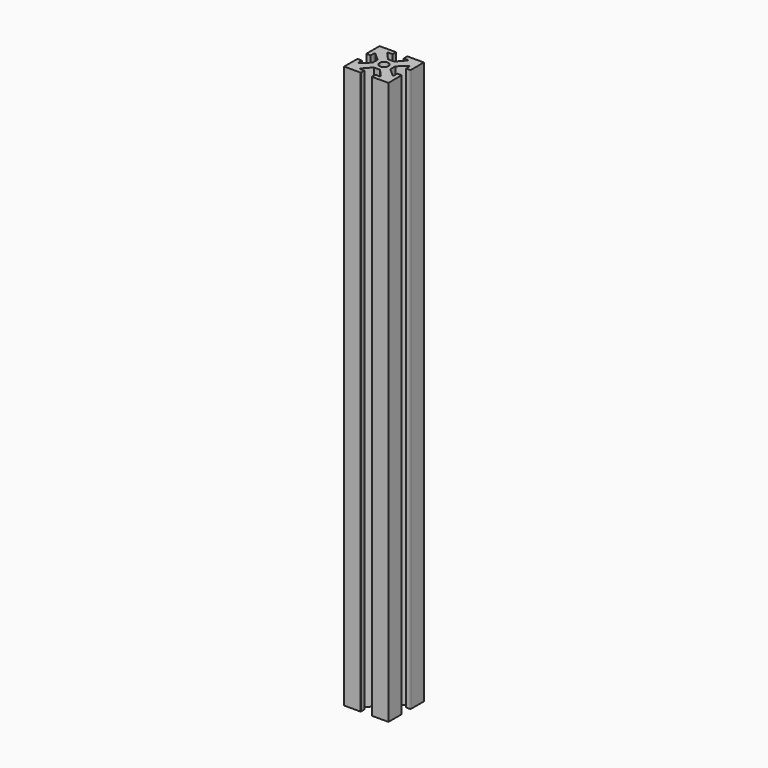
from build123d import *

# Parameters (mm, degrees)
F0_R     = 2
F1_DEPTH = 254


with BuildPart() as f1:
    # F0 (on Top) → F1 (new body)
    with BuildSketch(Plane.XY):
        with BuildLine():
            Line((10, 2.7), (10, 10))
            Line((10, 10), (2.7, 10))
            ThreePointArc((2.7, 10), (2.558579, 9.941421), (2.5, 9.8))
            Line((2.5, 9.8), (2.5, 8))
            Line((2.5, 8), (4.32817, 8))
            ThreePointArc((4.32817, 8), (4.6021, 7.822321), (4.551552, 7.49975))
            Line((4.551552, 7.49975), (1.414214, 4))
            Line((1.414214, 4), (-1.414214, 4))
            Line((-1.414214, 4), (-4.551552, 7.49975))
            ThreePointArc((-4.551552, 7.49975), (-4.6021, 7.822321), (-4.32817, 8))
            Line((-4.32817, 8), (-2.5, 8))
            Line((-2.5, 8), (-2.5, 9.8))
            ThreePointArc((-2.5, 9.8), (-2.558579, 9.941421), (-2.7, 10))
            Line((-2.7, 10), (-10, 10))
            Line((-10, 10), (-10, 2.7))
            ThreePointArc((-10, 2.7), (-9.941421, 2.558579), (-9.8, 2.5))
            Line((-9.8, 2.5), (-8, 2.5))
            Line((-8, 2.5), (-8, 4.32817))
            ThreePointArc((-8, 4.32817), (-7.822321, 4.6021), (-7.49975, 4.551552))
            Line((-7.49975, 4.551552), (-4, 1.414214))
            Line((-4, 1.414214), (-4, -1.414214))
            Line((-4, -1.414214), (-7.49975, -4.551552))
            ThreePointArc((-7.49975, -4.551552), (-7.822321, -4.6021), (-8, -4.32817))
            Line((-8, -4.32817), (-8, -2.5))
            Line((-8, -2.5), (-9.7, -2.5))
            ThreePointArc((-9.7, -2.5), (-9.912132, -2.587868), (-10, -2.8))
            Line((-10, -2.8), (-10, -10))
            Line((-10, -10), (-2.7, -10))
            ThreePointArc((-2.7, -10), (-2.558579, -9.941421), (-2.5, -9.8))
            Line((-2.5, -9.8), (-2.5, -8))
            Line((-2.5, -8), (-4.32817, -8))
            ThreePointArc((-4.32817, -8), (-4.6021, -7.822321), (-4.551552, -7.49975))
            Line((-4.551552, -7.49975), (-1.414214, -4))
            Line((-1.414214, -4), (1.414214, -4))
            Line((1.414214, -4), (4.551552, -7.49975))
            ThreePointArc((4.551552, -7.49975), (4.6021, -7.822321), (4.32817, -8))
            Line((4.32817, -8), (2.5, -8))
            Line((2.5, -8), (2.5, -9.8))
            ThreePointArc((2.5, -9.8), (2.558579, -9.941421), (2.7, -10))
            Line((2.7, -10), (10, -10))
            Line((10, -10), (10, -2.7))
            ThreePointArc((10, -2.7), (9.941421, -2.558579), (9.8, -2.5))
            Line((9.8, -2.5), (8, -2.5))
            Line((8, -2.5), (8, -4.32817))
            ThreePointArc((8, -4.32817), (7.822321, -4.6021), (7.49975, -4.551552))
            Line((7.49975, -4.551552), (4, -1.414214))
            Line((4, -1.414214), (4, 1.414214))
            Line((4, 1.414214), (7.49975, 4.551552))
            ThreePointArc((7.49975, 4.551552), (7.822321, 4.6021), (8, 4.32817))
            Line((8, 4.32817), (8, 2.5))
            Line((8, 2.5), (9.8, 2.5))
            ThreePointArc((9.8, 2.5), (9.941421, 2.558579), (10, 2.7))
        make_face()
        Circle(F0_R, mode=Mode.SUBTRACT)
    extrude(amount=F1_DEPTH)


solid = f1.part
